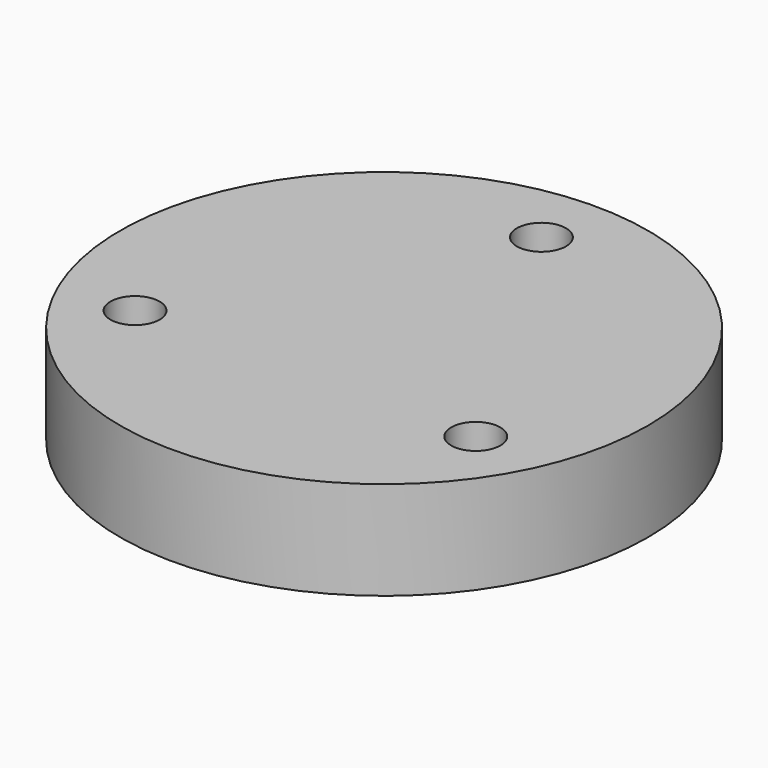
from build123d import *

# Parameters (mm, degrees)
SKETCH_R   = 26.83759
SKETCH_R_2 = 2.5
PAD_DEPTH  = 10


with BuildPart() as part:
    # Sketch → Pad (new body)
    with BuildSketch(Plane.XY):
        Circle(SKETCH_R)
        with Locations((0, 20)):
            Circle(SKETCH_R_2, mode=Mode.SUBTRACT)
        with Locations((-17.320508, -10)):
            Circle(SKETCH_R_2, mode=Mode.SUBTRACT)
        with Locations((17.320508, -10)):
            Circle(SKETCH_R_2, mode=Mode.SUBTRACT)
    extrude(amount=PAD_DEPTH)


solid = part.part
